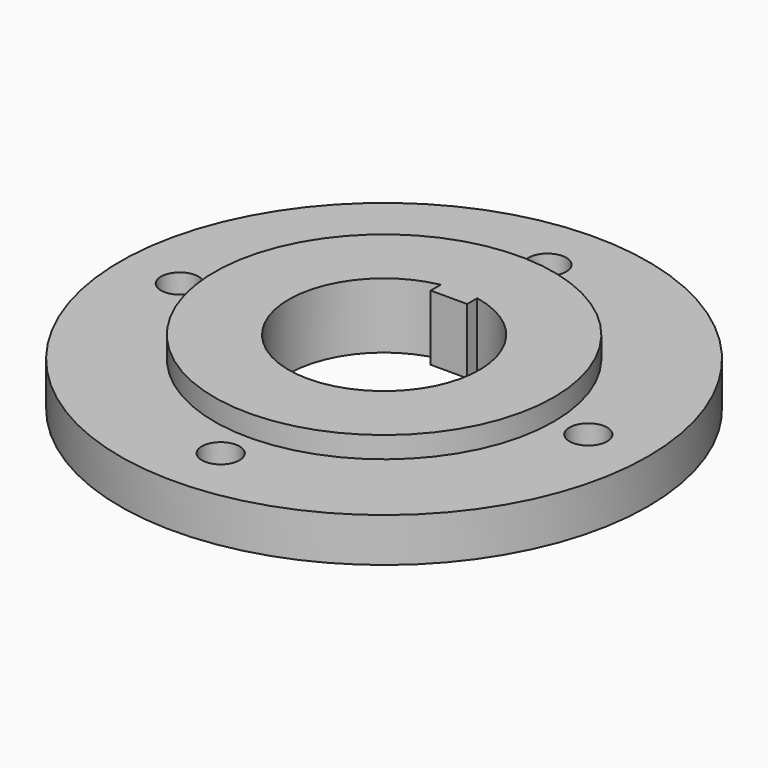
from build123d import *

# Parameters (mm, degrees)
SKETCH_R     = 42
PAD_DEPTH    = 7
SKETCH003_R  = 27
PAD001_DEPTH = 3.4
SKETCH004_R  = 3
HOLE_DEPTH   = 25


with BuildPart() as part:
    # Sketch → Pad (new body)
    with BuildSketch(Plane.XY):
        Circle(SKETCH_R)
        with BuildLine():
            Line((-2.9, 14.895322), (-2.9, 12.895322))
            Line((-2.9, 12.895322), (2.9, 12.895322))
            Line((2.9, 12.895322), (2.9, 14.895322))
            ThreePointArc((-2.9, 14.895322), (0, -15.175), (2.9, 14.895322))
        make_face(mode=Mode.SUBTRACT)
    extrude(amount=PAD_DEPTH)

    # Sketch003 (on Face7 of Pad) → Pad001 (join)
    with BuildSketch(Plane.XY.offset(7)):
        Circle(SKETCH003_R)
        with BuildLine():
            ThreePointArc((-2.9, 14.895322), (0, -15.175), (2.9, 14.895322))
            Line((2.9, 12.895322), (2.9, 14.895322))
            Line((-2.9, 12.895322), (2.9, 12.895322))
            Line((-2.9, 14.895322), (-2.9, 12.895322))
        make_face(mode=Mode.SUBTRACT)
    extrude(amount=PAD001_DEPTH)

    # Sketch004 (on Face3 of Pad001) → Hole (cut)
    with BuildSketch(Plane.XY.offset(7)):
        with Locations((0, 32.5)):
            Circle(SKETCH004_R)
        with Locations((0, -32.5)):
            Circle(SKETCH004_R)
        with Locations((32.5, 0)):
            Circle(SKETCH004_R)
        with Locations((-32.5, 0)):
            Circle(SKETCH004_R)
    extrude(amount=-HOLE_DEPTH, mode=Mode.SUBTRACT)


solid = part.part
